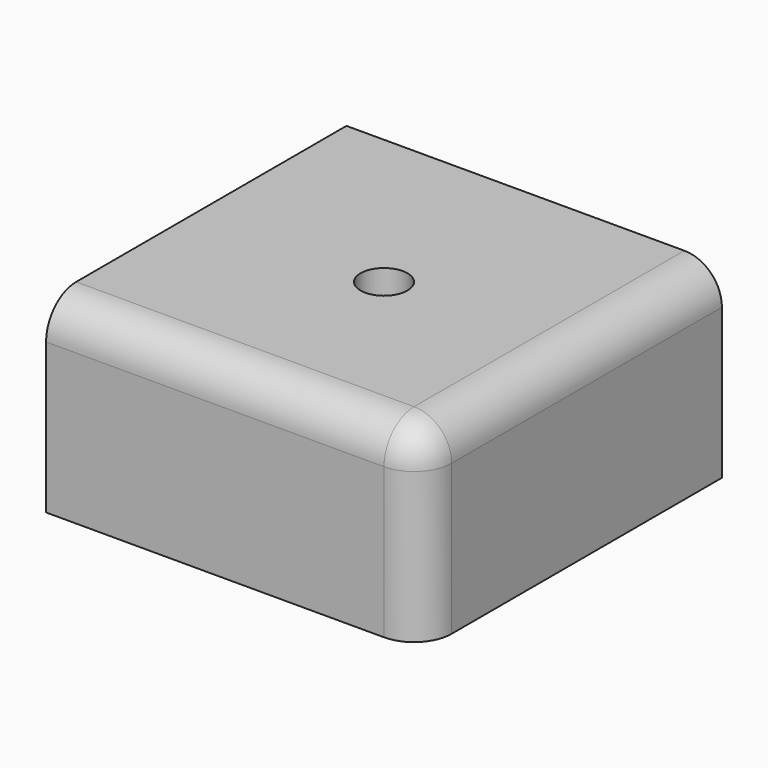
from build123d import *

# Parameters (mm, degrees)
F0_W     = 50.8
F0_H     = 25.4
F1_DEPTH = 50.8
F2_R     = 5.08
F4_D     = 6.35


with BuildPart() as f1:
    # F0 (on Front) → F1 (new body)
    with BuildSketch(Plane.XZ):
        with Locations((25.4, 12.7)):
            Rectangle(F0_W, F0_H)
    extrude(amount=-F1_DEPTH)

    # F2
    f2_edges = [f1.edges().sort_by_distance(p)[0] for p in [
        (50.8, 25.4, 25.4),
        (50.8, 0, 12.7),
        (25.4, 0, 25.4),
    ]]
    fillet(f2_edges, radius=F2_R)

    # F4 (through all)
    with Locations(Plane.XY.offset(25.4)):
        with Locations((25.4, 25.4)):
            Hole(F4_D / 2)


solid = f1.part
